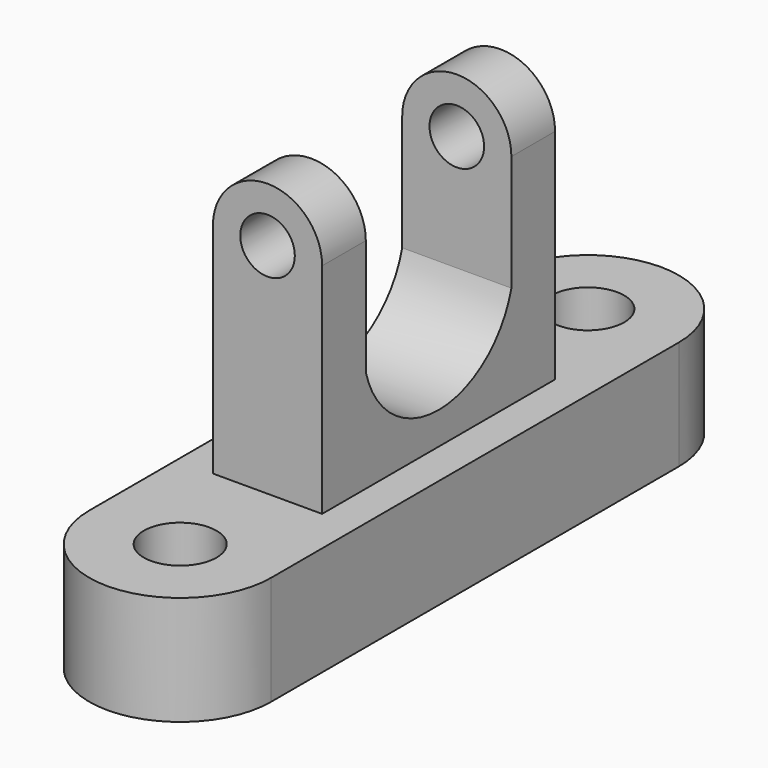
from build123d import *

# Parameters (mm, degrees)
F1_DEPTH = 19.05
F2_R     = 6.35
F3_DEPTH = 25.4
F5_DEPTH = 25.4
F6_R     = 4.7625
F7_DEPTH = 50.8
F9_DEPTH = 25.4


with BuildPart() as f1:
    # F0 (on Top) → F1 (new body)
    with BuildSketch(Plane.XY):
        with BuildLine():
            ThreePointArc((-15.875, 44.45), (0, 28.575), (15.875, 44.45))
            Line((15.875, 44.45), (-15.875, 44.45))
        make_face()
        with BuildLine():
            Line((-15.875, 44.45), (15.875, 44.45))
            ThreePointArc((15.875, 44.45), (0, 60.325), (-15.875, 44.45))
        make_face()
        with BuildLine():
            Line((15.875, -44.45), (15.875, 44.45))
            ThreePointArc((15.875, 44.45), (0, 28.575), (-15.875, 44.45))
            Line((-15.875, 44.45), (-15.875, -44.45))
            ThreePointArc((-15.875, -44.45), (0, -28.575), (15.875, -44.45))
        make_face()
        with BuildLine():
            ThreePointArc((-15.875, -44.45), (0, -60.325), (15.875, -44.45))
            Line((15.875, -44.45), (-15.875, -44.45))
        make_face()
        with BuildLine():
            Line((-15.875, -44.45), (15.875, -44.45))
            ThreePointArc((15.875, -44.45), (0, -28.575), (-15.875, -44.45))
        make_face()
    extrude(amount=F1_DEPTH)

    # F2 (on face) → F3 (cut)
    with BuildSketch(Plane.XY.offset(19.05)):
        with Locations((0, -44.45)):
            Circle(F2_R)
        with Locations((0, 44.45)):
            Circle(F2_R)
    extrude(amount=-F3_DEPTH, mode=Mode.SUBTRACT)

    # F4 (on Front) → F5 (join, symmetric)
    with BuildSketch(Plane.XZ):
        with BuildLine():
            Line((-9.525, 57.15), (-9.525, 19.05))
            Line((-9.525, 19.05), (9.525, 19.05))
            Line((9.525, 19.05), (9.525, 57.15))
            ThreePointArc((9.525, 57.15), (0, 47.625), (-9.525, 57.15))
        make_face()
        with BuildLine():
            ThreePointArc((9.525, 57.15), (0, 66.675), (-9.525, 57.15))
            Line((-9.525, 57.15), (9.525, 57.15))
        make_face()
        with BuildLine():
            Line((9.525, 57.15), (-9.525, 57.15))
            ThreePointArc((-9.525, 57.15), (0, 47.625), (9.525, 57.15))
        make_face()
    extrude(amount=F5_DEPTH, both=True)

    # F6 (on face) → F7 (cut, through all)
    with BuildSketch(Plane.XZ.offset(25.4)):
        with Locations((0, 57.15)):
            Circle(F6_R)
    extrude(amount=-F7_DEPTH, mode=Mode.SUBTRACT)

    # F8 (on face) → F9 (cut)
    with BuildSketch(Plane.YZ.offset(9.525)):
        with BuildLine():
            Line((15.875, 71.8479231), (0, 71.8479231))
            Line((0, 71.8479231), (-15.875, 71.8479231))
            Line((-15.875, 71.8479231), (-15.875, 45.2380125161))
            ThreePointArc((-15.875, 45.2380125161), (0, 57.496732945), (15.875, 45.2380125161))
            Line((15.875, 45.2380125161), (15.875, 71.8479231))
        make_face()
        with BuildLine():
            ThreePointArc((15.875, 45.2380125161), (0, 57.496732945), (-15.875, 45.2380125161))
            Line((-15.875, 45.2380125161), (-15.875, 36.9386635721))
            Line((-15.875, 36.9386635721), (15.875, 36.9386635721))
            Line((15.875, 36.9386635721), (15.875, 45.2380125161))
        make_face()
        with BuildLine():
            Line((15.875, 36.9386635721), (-15.875, 36.9386635721))
            ThreePointArc((-15.875, 36.9386635721), (0, 24.6799431432), (15.875, 36.9386635721))
        make_face()
    extrude(amount=-F9_DEPTH, mode=Mode.SUBTRACT)


solid = f1.part
